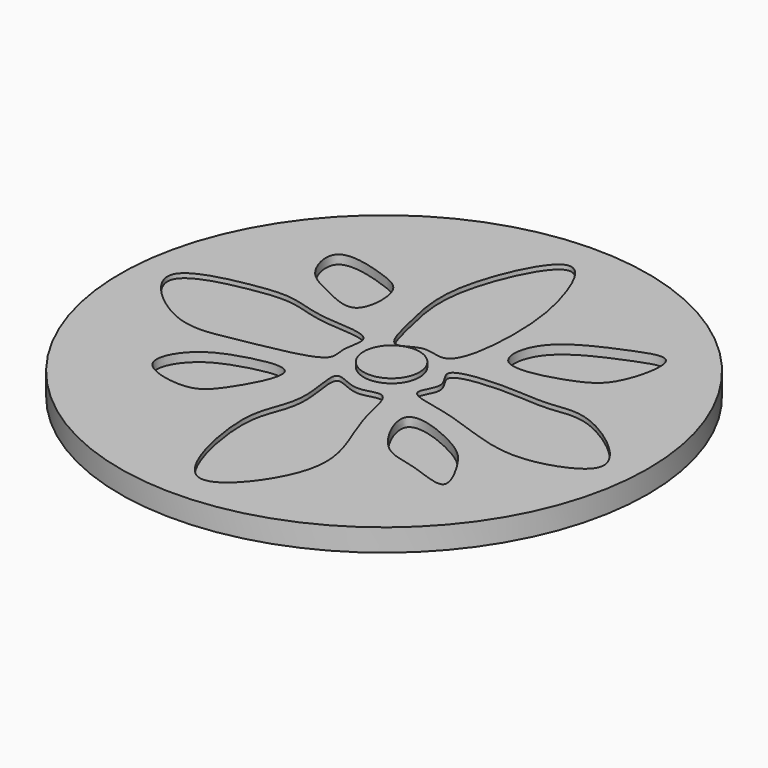
from build123d import *

# Parameters (mm, degrees)
F0_R     = 59.0880936476
F1_DEPTH = 5
F2_R     = 6.2541458164
F4_DEPTH = 1
F5_DEPTH = 1
F7_DEPTH = 2


with BuildPart() as f1:
    # F0 (on Top) → F1 (new body)
    with BuildSketch(Plane.XY):
        with Locations((0, -2.1056151018)):
            Circle(F0_R)
    extrude(amount=F1_DEPTH)

    # F2 (on face) → F4 (join)
    with BuildSketch(Plane.XY.offset(5)):
        Circle(F2_R)
    extrude(amount=F4_DEPTH)

    # F3 (on face) → F5 (cut)
    with BuildSketch(Plane.XY.offset(5)):
        with BuildLine():
            add(Edge.make_bspline(
                [(-4.7727273777, 7.1590915322), (-6.4085462642, 7.5826188619), (-8.4425893593, 17.0006860771), (-11.8022056723, 29.7717877031), (-0.4846107398, 55.4650055698), (7.2364784999, 40.2168270371), (9.9385199312, 24.5727673402), (7.5472832072, 5.5833376772), (-0.0780264695, 10.4088109322), (-3.532940639, 6.8381002714), (-4.7727273777, 7.1590915322)],
                knots=[0, 0, 0, 0, 0.1083711566, 0.2545974371, 0.418747804, 0.5318838777, 0.6912807851, 0.8313008397, 0.9178655266, 1, 1, 1, 1], degree=3))
        make_face()
        with BuildLine():
            add(Edge.make_bspline(
                [(-10.6684491038, 5.4745990783), (-12.0561691308, 7.2253596345), (-21.8791208512, 6.6913791481), (-29.4891331724, 10.1232660852), (-38.5245708395, 9.2783692303), (-58.5554832425, 4.6689669232), (-40.4078078708, -11.8402187561), (-27.8721878336, -8.5519321006), (-8.8009851807, -5.6384065776), (-11.4468848959, -0.0927082515), (-9.6698295121, 4.2147312679), (-10.6684491038, 5.4745990783)],
                knots=[0, 0, 0, 0, 0.111151783, 0.2116860031, 0.3189330474, 0.4465756354, 0.5820040709, 0.7138708157, 0.8509586515, 0.9200138746, 1, 1, 1, 1], degree=3))
        make_face()
        with BuildLine():
            add(Edge.make_bspline(
                [(-5.3342245519, -8.5628349334), (-4.4786799615, -7.9736803873), (0.1321944458, -11.5276932912), (6.5094929194, -7.1786809191), (7.7925295931, -18.0493088432), (12.5937168704, -27.9592025979), (15.2386785589, -40.5808267294), (-2.2344329407, -63.4221883959), (-9.3151225032, -32.5510137398), (-6.5517675744, -24.8541403122), (-4.0786180579, -17.8255645054), (-6.3917164173, -9.2910566379), (-5.3342245519, -8.5628349334)],
                knots=[0, 0, 0, 0, 0.0731488102, 0.1452817606, 0.233833908, 0.3400653345, 0.4532163707, 0.5841380712, 0.7291880487, 0.8231072311, 0.9095847574, 1, 1, 1, 1], degree=3))
        make_face()
        with BuildLine():
            add(Edge.make_bspline(
                [(9.2647057027, 4.3516047299), (8.9571380145, 3.2492611123), (12.7824592675, 0.0498091413), (6.8411175325, -5.9264798552), (19.8045058403, -7.2302473149), (33.5224767675, -13.9041118827), (46.0840418949, -12.1328084491), (56.7905325681, -5.4761697374), (38.818909156, 8.4283733616), (30.0590091206, 5.632261363), (20.4955228271, 7.1441859852), (9.7228474514, 5.993616073), (9.2647057027, 4.3516047299)],
                knots=[0, 0, 0, 0, 0.0685699291, 0.1384074135, 0.2348713438, 0.3635401519, 0.4767141252, 0.5661641833, 0.6989939822, 0.7941615915, 0.8978607037, 1, 1, 1, 1], degree=3))
        make_face()
    extrude(amount=-F5_DEPTH, mode=Mode.SUBTRACT)

    # F6 (on face) → F7 (cut)
    with BuildSketch(Plane.XY.offset(5)):
        with BuildLine():
            add(Edge.make_bspline(
                [(-18.8101604581, 13.6163104326), (-20.5254717132, 12.3583074837), (-26.9248008538, 15.6865490851), (-33.7275755806, 18.5668931693), (-36.5578089612, 30.3630531403), (-22.3411679187, 26.3206684702), (-16.5918168832, 23.4293571667), (-17.015834157, 14.9322627248), (-18.8101604581, 13.6163104326)],
                knots=[0, 0, 0, 0, 0.1619140666, 0.3288782161, 0.4863822939, 0.679151516, 0.8306274343, 1, 1, 1, 1], degree=3))
        make_face()
        with BuildLine():
            add(Edge.make_bspline(
                [(-13.4759368375, -13.0548132583), (-14.4909029516, -11.2689861927), (-23.239810669, -12.8996365593), (-31.7467546738, -16.72157874), (-36.2297698541, -26.5959138687), (-22.5113531956, -29.4588233332), (-17.7730881422, -24.9978905765), (-12.2975665768, -15.1281489841), (-13.4759368375, -13.0548132583)],
                knots=[0, 0, 0, 0, 0.1618756315, 0.3401283677, 0.4882660713, 0.6643671021, 0.8120632527, 1, 1, 1, 1], degree=3))
        make_face()
        with BuildLine():
            add(Edge.make_bspline(
                [(14.037434943, -13.0548132583), (12.4814272274, -14.8955685048), (18.0129656253, -26.232593731), (25.442948431, -26.0476454266), (37.711765373, -31.9321015834), (31.852347262, -20.690854796), (27.4563394325, -15.8966958652), (15.6370265264, -11.162498349), (14.037434943, -13.0548132583)],
                knots=[0, 0, 0, 0, 0.1830838261, 0.3435542177, 0.5025378944, 0.6501891248, 0.8117879852, 1, 1, 1, 1], degree=3))
        make_face()
        with BuildLine():
            add(Edge.make_bspline(
                [(14.87968117, 14.1778076068), (12.8784763814, 15.6754514193), (13.734838999, 24.6090932726), (27.4657251112, 30.4174078857), (38.3109506254, 34.7821627022), (35.1340804737, 19.5551832527), (28.8660402407, 15.366463644), (17.4067531204, 12.2866200121), (14.87968117, 14.1778076068)],
                knots=[0, 0, 0, 0, 0.1469348173, 0.3506164253, 0.4931233357, 0.6619931863, 0.8144543439, 1, 1, 1, 1], degree=3))
        make_face()
    extrude(amount=-F7_DEPTH, mode=Mode.SUBTRACT)


solid = f1.part
